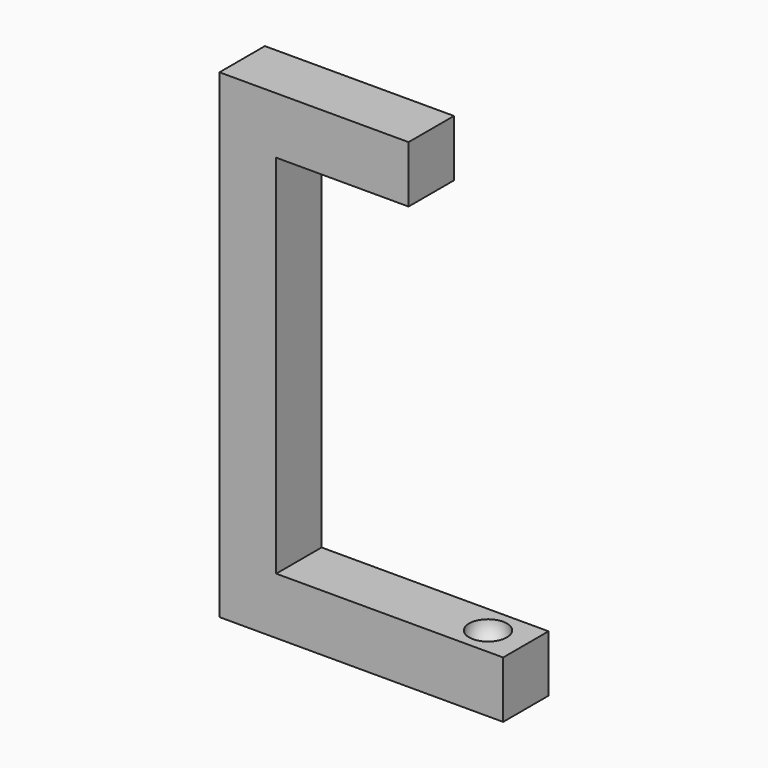
from build123d import *

# Parameters (mm, degrees)
F1_DEPTH = 15


with BuildPart() as f1:
    # F0 (on Front) → F1 (new body, symmetric)
    with BuildSketch(Plane.XZ):
        Polygon((0, 0), (0, 30), (-120, 30), (-120, 223.6491673104), (-50, 223.6491673104), (-50, 253.6491673104), (-150, 253.6491673104), (-150, 0), align=None)
    extrude(amount=F1_DEPTH, both=True)

    # F2 (on Front) → F3 (revolve, cut)
    with BuildSketch(Plane.XZ):
        with BuildLine():
            Line((-22.5, 39.6824583655), (-17.5, 20.3175416345))
            ThreePointArc((-17.5, 20.3175416345), (-10.3175416345, 32.5), (-22.5, 39.6824583655))
        make_face()
        with BuildLine():
            Line((-72.5, 233.3316256759), (-67.5, 213.9667089449))
            ThreePointArc((-67.5, 213.9667089449), (-60.3175416345, 226.1491673104), (-72.5, 233.3316256759))
        make_face()
    revolve(axis=Axis((-45, 0, 126.8245836552), (-0.25, 0, 0.9682458366)), mode=Mode.SUBTRACT)


solid = f1.part
